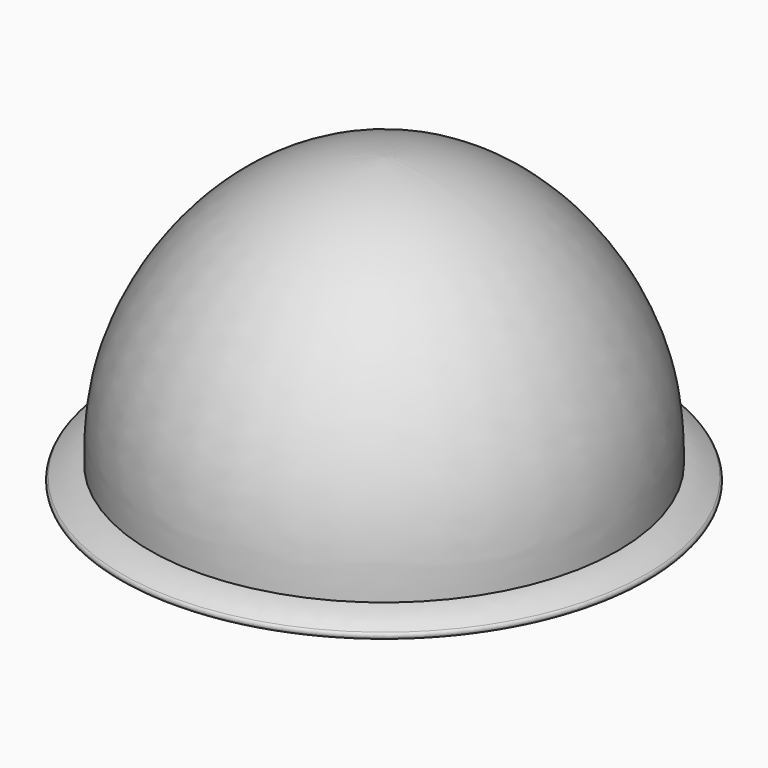
from build123d import *

# Parameters (mm, degrees)
F2_R = 1


with BuildPart() as f1:
    # F0 (on Front) → F1 (revolve)
    with BuildSketch(Plane.XZ):
        with BuildLine():
            add(Edge.make_bspline(
                [(0, 45), (32.5854684999, 43.8341987474), (63.7051902244, 4.8907256128), (65.0029016661, -20.614380353), (65.016558153, -30)],
                knots=[0, 0, 0, 0, 0.5929126607, 0.9387076193, 0.9387076193, 0.9387076193, 0.9387076193], degree=3))
            Line((0, 45), (0, 30))
            add(Edge.make_bspline(
                [(0, 30), (21.6322918756, 27.5285851806), (51.8416084101, 3.2747567854), (49.2126600125, -23.2914760548), (50, -35)],
                knots=[0, 0, 0, 0, 0.5529353155, 1, 1, 1, 1], degree=3))
            Line((50, -35), (65, -35))
            add(Edge.make_bspline(
                [(65.016558153, -30), (65.0189787742, -31.6636071704), (65.0068094141, -33.3269069467), (65, -35)],
                knots=[0.9387076193, 0.9387076193, 0.9387076193, 0.9387076193, 1, 1, 1, 1], degree=3))
        make_face()
        with BuildLine():
            add(Edge.make_bspline(
                [(75, -35), (72.4691897631, -32.6944962144), (70.0860851209, -31.5958470621), (67.3669725657, -30.3478743881), (65.016558153, -30)],
                knots=[0, 0, 0, 0, 0.5248969058, 1, 1, 1, 1], degree=3))
            add(Edge.make_bspline(
                [(65.016558153, -30), (65.0189787742, -31.6636071704), (65.0068094141, -33.3269069467), (65, -35)],
                knots=[0.9387076193, 0.9387076193, 0.9387076193, 0.9387076193, 1, 1, 1, 1], degree=3))
            Line((65, -35), (75, -35))
        make_face()
    revolve(axis=Axis((0, 0, -2.5), (0, 0, -1)))

    # F2
    f2_edges = [f1.edges().sort_by_distance(p)[0] for p in [
        (-75, 0, -35),
    ]]
    fillet(f2_edges, radius=F2_R)


solid = f1.part
